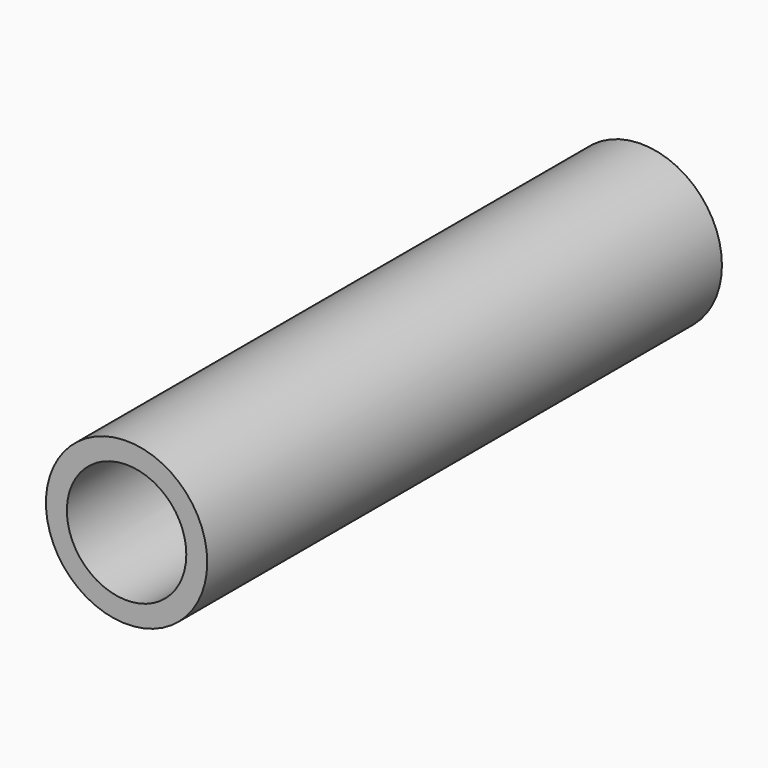
from build123d import *

# Parameters (mm, degrees)
F0_R     = 10.668
F0_R_2   = 7.8994
F1_DEPTH = 85.09
F2_R     = 4.7625
F3_DEPTH = 25.4
F4_R     = 4.7625
F5_DEPTH = 6.35


with BuildPart() as f1:
    # F0 (on Front) → F1 (new body)
    with BuildSketch(Plane.XZ):
        Circle(F0_R)
        Circle(F0_R_2, mode=Mode.SUBTRACT)
    extrude(amount=F1_DEPTH)

    # F2 (on Right) → F3 (cut)
    with BuildSketch(Plane.YZ):
        with Locations((-21.2725, 0)):
            Circle(F2_R)
        with Locations((-42.545, 0)):
            Circle(F2_R)
        with Locations((-63.8175, 0)):
            Circle(F2_R)
    extrude(amount=-F3_DEPTH, mode=Mode.SUBTRACT)

    # F4 (on Right) → F5 (join)
    with BuildSketch(Plane.YZ):
        with Locations((-21.2725, 0)):
            Circle(F4_R)
        with Locations((-42.545, 0)):
            Circle(F4_R)
        with Locations((-63.8175, 0)):
            Circle(F4_R)
    extrude(amount=-F5_DEPTH)


solid = f1.part
